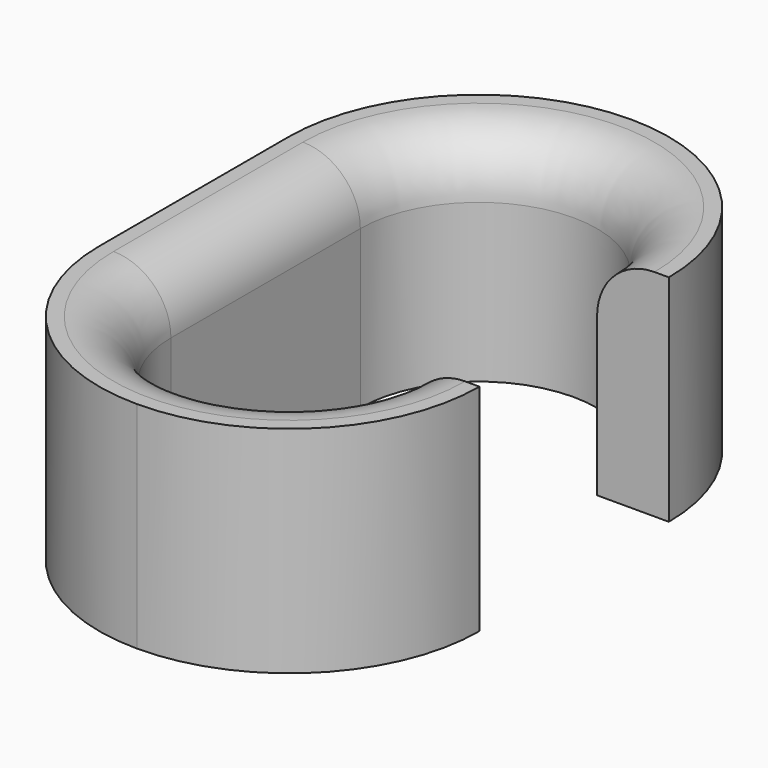
from build123d import *

# Parameters (mm, degrees)
SKETCH_W        = 53
SKETCH_H        = 86
PAD_DEPTH       = 30
POCKET_DEPTH    = 30
POCKET001_DEPTH = 30
POCKET002_DEPTH = 30
POCKET003_DEPTH = 30
POCKET004_DEPTH = 30
FILLET_R        = 8


with BuildPart() as part:
    # Sketch → Pad (new body)
    with BuildSketch(Plane.XY):
        Rectangle(SKETCH_W, SKETCH_H)
    extrude(amount=PAD_DEPTH)

    # Sketch001 (on Face6 of Pad) → Pocket (cut)
    with BuildSketch(Plane.XY.offset(30)):
        with BuildLine():
            ThreePointArc((16.5, 16.5), (0, 33), (-16.5, 16.5))
            Line((-16.5, -16.499996), (-16.5, 16.5))
            ThreePointArc((-16.5, -16.499996), (0, -33), (16.5, -16.499996))
            Line((26.5, -16.499996), (16.5, -16.499996))
            Line((26.5, 16.5), (26.5, -16.499996))
            Line((16.5, 16.5), (26.5, 16.5))
        make_face()
    extrude(amount=-POCKET_DEPTH, mode=Mode.SUBTRACT)

    # Sketch002 (on Face5 of Pocket) → Pocket001 (cut)
    with BuildSketch(Plane.XY.offset(30)):
        with BuildLine():
            ThreePointArc((0, 43), (-18.73833, 35.23833), (-26.5, 16.5))
            Line((-26.5, 16.5), (-26.5, 43))
            Line((-26.5, 43), (0, 43))
        make_face()
    extrude(amount=-POCKET001_DEPTH, mode=Mode.SUBTRACT)

    # Sketch003 (on Face4 of Pocket001) → Pocket002 (cut)
    with BuildSketch(Plane.XY.offset(30)):
        with BuildLine():
            ThreePointArc((26.5, 16.5), (18.73833, 35.23833), (0, 43))
            Line((0, 43), (26.5, 43))
            Line((26.5, 16.5), (26.5, 43))
        make_face()
    extrude(amount=-POCKET002_DEPTH, mode=Mode.SUBTRACT)

    # Sketch004 (on Face4 of Pocket002) → Pocket003 (cut)
    with BuildSketch(Plane.XY.offset(30)):
        with BuildLine():
            ThreePointArc((-26.5, -16.5), (-18.738343, -35.238316), (-3.9e-05, -43))
            Line((-3.9e-05, -43), (-26.5, -43))
            Line((-26.5, -16.5), (-26.5, -43))
        make_face()
    extrude(amount=-POCKET003_DEPTH, mode=Mode.SUBTRACT)

    # Sketch005 (on Face4 of Pocket003) → Pocket004 (cut)
    with BuildSketch(Plane.XY.offset(30)):
        with BuildLine():
            ThreePointArc((3.9e-05, -43), (18.738343, -35.238316), (26.5, -16.5))
            Line((26.5, -16.5), (26.5, -43))
            Line((26.5, -43), (3.9e-05, -43))
        make_face()
    extrude(amount=-POCKET004_DEPTH, mode=Mode.SUBTRACT)

    # Fillet
    fillet_edges = [part.edges().sort_by_distance(p)[0] for p in [
        (-16.5, 2e-06, 30),
    ]]
    fillet(fillet_edges, radius=FILLET_R)


solid = part.part
